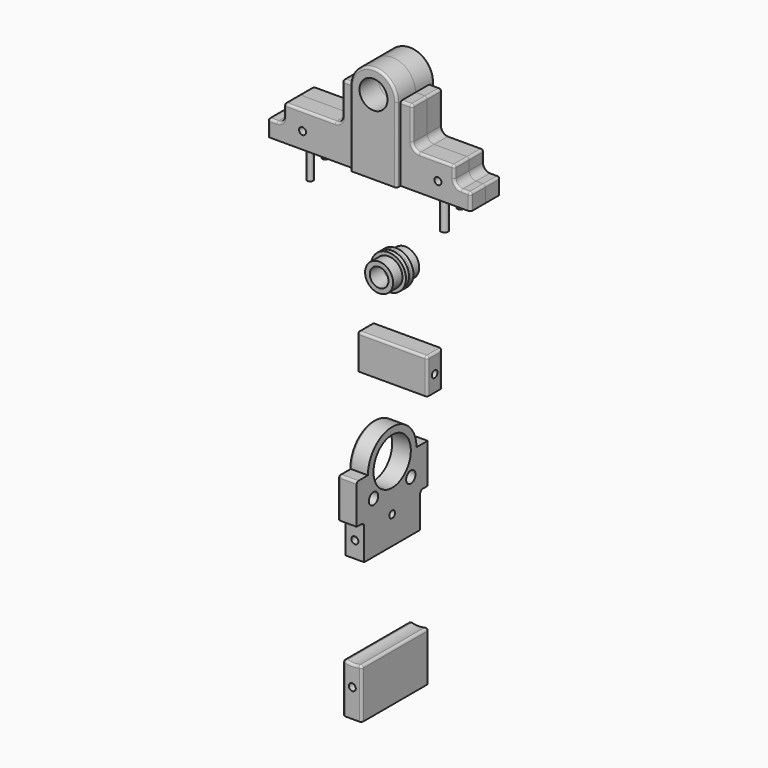
from build123d import *

# Parameters (mm, degrees)
F0_R      = 1.5
F0_R_2    = 6
F1_DEPTH  = 8
F2_R      = 6
F3_DEPTH  = 2
F4_R      = 1
F6_R      = 7.5
F6_R_2    = 4
F7_DEPTH  = 7
F8_R      = 7.5
F8_R_2    = 6
F9_DEPTH  = 5
F10_R     = 0.5
F12_W     = 30
F12_H     = 15
F13_DEPTH = 8
F14_R     = 1.5
F15_DEPTH = 35
F16_R     = 1.25
F17_DEPTH = 10
F18_R     = 1
F19_R     = 2.5
F19_R_2   = 1.5
F19_R_3   = 10
F20_DEPTH = 8
F21_R     = 1.5
F22_DEPTH = 35
F23_R     = 1.25
F24_DEPTH = 10
F25_R     = 1
F26_W     = 36
F26_H     = 21.5
F27_DEPTH = 8
F29_DEPTH = 40
F30_R     = 1.5
F31_DEPTH = 10
F32_R     = 1.25
F33_DEPTH = 10
F34_R     = 1
F35_R     = 1.5865958962
F35_R_2   = 1.25
F36_DEPTH = 13
F37_R     = 1.25
F38_DEPTH = 8


with BuildPart() as f1:
    # F0 (on Front) → F1 (new body)
    with BuildSketch(Plane.XZ):
        with BuildLine():
            Line((14, 32), (10, 32))
            ThreePointArc((10, 32), (0, 42), (-10, 32))
            Line((-10, 32), (-14, 32))
            ThreePointArc((-14, 32), (-14.7071067812, 31.7071067812), (-15, 31))
            Line((-15, 31), (-15, 18))
            ThreePointArc((-15, 18), (-15.8786796564, 15.8786796564), (-18, 15))
            Line((-18, 15), (-39, 15))
            ThreePointArc((-39, 15), (-39.7071067812, 14.7071067812), (-40, 14))
            Line((-40, 14), (-40, 10))
            ThreePointArc((-40, 10), (-40.8786796564, 7.8786796564), (-43, 7))
            Line((-43, 7), (-46, 7))
            ThreePointArc((-46, 7), (-46.7071067812, 6.7071067812), (-47, 6))
            Line((-47, 6), (-47, 0))
            Line((-47, 0), (40, 0))
            Line((40, 0), (40, 6))
            ThreePointArc((40, 6), (39.7071067812, 6.7071067812), (39, 7))
            Line((39, 7), (36, 7))
            ThreePointArc((36, 7), (33.8786796564, 7.8786796564), (33, 10))
            Line((33, 10), (33, 14))
            ThreePointArc((33, 14), (32.7071067812, 14.7071067812), (32, 15))
            Line((32, 15), (18, 15))
            ThreePointArc((18, 15), (15.8786796564, 15.8786796564), (15, 18))
            Line((15, 18), (15, 31))
            ThreePointArc((15, 31), (14.7071067812, 31.7071067812), (14, 32))
        make_face()
        with Locations((-32, 7)):
            Circle(F0_R, mode=Mode.SUBTRACT)
        with Locations((26, 7)):
            Circle(F0_R, mode=Mode.SUBTRACT)
        with Locations((0, 32)):
            Circle(F0_R_2, mode=Mode.SUBTRACT)
    extrude(amount=F1_DEPTH)

    # F2 (on face) → F3 (join)
    with BuildSketch(Plane.XZ.offset(8)):
        with BuildLine():
            Line((10, 0), (10, 32))
            ThreePointArc((10, 32), (0, 42), (-10, 32))
            Line((-10, 32), (-10, 0))
            Line((-10, 0), (10, 0))
        make_face()
        with Locations((0, 32)):
            Circle(F2_R, mode=Mode.SUBTRACT)
    extrude(amount=F3_DEPTH)

    # F4
    f4_edges = [f1.edges().sort_by_distance(p)[0] for p in [
        (25, -8, 15),
        (-28.5, -8, 15),
        (0, -10, 42),
    ]]
    fillet(f4_edges, radius=F4_R)


with BuildPart() as f5_1:
    # F5: instance of F1
    add(f1.part.mirror(Plane.XZ))

    # F37 (on face) → F38 (join)
    with BuildSketch(Plane(origin=(0, 0, 0), x_dir=(1, 0, 0), z_dir=(0, 0, -1))):
        with Locations((26, -4)):
            Circle(F37_R)
        with Locations((-32, -4.1238376871)):
            Circle(F37_R)
    extrude(amount=F38_DEPTH)


with BuildPart() as f7:
    # F6 (on Front) → F7 (new body)
    with BuildSketch(Plane.XZ):
        with Locations((0, -38.2156930864)):
            Circle(F6_R)
        with Locations((0, -38.2156930864)):
            Circle(F6_R_2, mode=Mode.SUBTRACT)
    extrude(amount=-F7_DEPTH)

    # F8 (on face) → F9 (cut)
    with BuildSketch(Plane(origin=(0, 7, 0), x_dir=(-1, 0, 0), z_dir=(0, 1, 0))):
        with Locations((0, -38.2156930864)):
            Circle(F8_R)
        with Locations((0, -38.2156930864)):
            Circle(F8_R_2, mode=Mode.SUBTRACT)
    extrude(amount=-F9_DEPTH, mode=Mode.SUBTRACT)

    # F10
    f10_edges = [f7.edges().sort_by_distance(p)[0] for p in [
        (-7.5, 0, -38.215693),
    ]]
    fillet(f10_edges, radius=F10_R)


with BuildPart() as f11_1:
    # F11: instance of F7
    add(f7.part.mirror(Plane.XZ))


with BuildPart() as f13:
    # F12 (on Front) → F13 (new body)
    with BuildSketch(Plane.XZ):
        with Locations((0, -73.7332031131)):
            Rectangle(F12_W, F12_H)
    extrude(amount=-F13_DEPTH)

    # F14 (on face) → F15 (cut)
    with BuildSketch(Plane.YZ.offset(15)):
        with Locations((4, -74.2332031131)):
            Circle(F14_R)
    extrude(amount=-F15_DEPTH, mode=Mode.SUBTRACT)

    # F16 (on face) → F17 (cut)
    with BuildSketch(Plane(origin=(0, 0, -81.2332031131), x_dir=(1, 0, 0), z_dir=(0, 0, -1))):
        with Locations((-9, -4)):
            Circle(F16_R)
        with Locations((9, -4)):
            Circle(F16_R)
    extrude(amount=-F17_DEPTH, mode=Mode.SUBTRACT)

    # F18
    f18_edges = [f13.edges().sort_by_distance(p)[0] for p in [
        (15, 4, -66.233203),
        (15, 0, -73.733203),
        (0, 0, -66.233203),
        (-15, 0, -73.733203),
        (-15, 4, -66.233203),
        (-15, 8, -73.733203),
        (15, 8, -73.733203),
    ]]
    fillet(f18_edges, radius=F18_R)


with BuildPart() as f20:
    # F19 (on Right) → F20 (new body)
    with BuildSketch(Plane.YZ):
        with BuildLine():
            Line((19, -110.3949025273), (13, -110.3949025273))
            ThreePointArc((13, -110.3949025273), (0, -97.3949025273), (-13, -110.3949025273))
            Line((-13, -110.3949025273), (-19, -110.3949025273))
            Line((-19, -110.3949025273), (-19, -127.3949025273))
            Line((-19, -127.3949025273), (-16.5, -127.3949025273))
            ThreePointArc((-16.5, -127.3949025273), (-15.4393398282, -127.8342423556), (-15, -128.8949025273))
            Line((-15, -128.8949025273), (-15, -142.3949025273))
            Line((-15, -142.3949025273), (15, -142.3949025273))
            Line((15, -142.3949025273), (15, -128.8949025273))
            ThreePointArc((15, -128.8949025273), (15.4393398282, -127.8342423556), (16.5, -127.3949025273))
            Line((16.5, -127.3949025273), (19, -127.3949025273))
            Line((19, -127.3949025273), (19, -110.3949025273))
        make_face()
        with Locations((-10, -120.3949025273)):
            Circle(F19_R, mode=Mode.SUBTRACT)
        with Locations((0, -130.3949025273)):
            Circle(F19_R_2, mode=Mode.SUBTRACT)
        with Locations((10, -120.3949025273)):
            Circle(F19_R, mode=Mode.SUBTRACT)
        with Locations((0, -110.3949025273)):
            Circle(F19_R_3, mode=Mode.SUBTRACT)
    extrude(amount=-F20_DEPTH)

    # F21 (on face) → F22 (cut)
    with BuildSketch(Plane.XZ.offset(15)):
        with Locations((-4, -135.3949025273)):
            Circle(F21_R)
    extrude(amount=-F22_DEPTH, mode=Mode.SUBTRACT)

    # F23 (on face) → F24 (cut)
    with BuildSketch(Plane(origin=(0, 0, -142.3949025273), x_dir=(1, 0, 0), z_dir=(0, 0, -1))):
        with Locations((-4, 9)):
            Circle(F23_R)
        with Locations((-4, -9)):
            Circle(F23_R)
    extrude(amount=-F24_DEPTH, mode=Mode.SUBTRACT)

    # F25
    f25_edges = [f20.edges().sort_by_distance(p)[0] for p in [
        (-8, 0, -97.394903),
        (-4, -19, -110.394903),
        (-8, -16, -110.394903),
        (-8, 16, -110.394903),
        (-8, -19, -118.894903),
        (-8, 19, -118.894903),
    ]]
    fillet(f25_edges, radius=F25_R)


with BuildPart() as f27:
    # F26 (on Right) → F27 (new body)
    with BuildSketch(Plane.YZ):
        with Locations((1.6262185127, -191.5252016783)):
            Rectangle(F26_W, F26_H)
    extrude(amount=-F27_DEPTH)

    # F28 (on face) → F29 (cut)
    with BuildSketch(Plane.XZ.offset(16.3737814873)):
        with BuildLine():
            Line((0, -180.7752016783), (-8, -180.7752016783))
            ThreePointArc((-8, -180.7752016783), (-4, -181.5282509123), (0, -180.7752016783))
        make_face()
    extrude(amount=-F29_DEPTH, mode=Mode.SUBTRACT)

    # F30 (on face) → F31 (cut)
    with BuildSketch(Plane.XZ.offset(16.3737814873)):
        with Locations((-4, -190.2752016783)):
            Circle(F30_R)
    extrude(amount=-F31_DEPTH, mode=Mode.SUBTRACT)

    # F32 (on face) → F33 (cut)
    with BuildSketch(Plane(origin=(0, 0, -202.2752016783), x_dir=(1, 0, 0), z_dir=(0, 0, -1))):
        with Locations((-4, 10.5)):
            Circle(F32_R)
        with Locations((-4, -14.6262185127)):
            Circle(F32_R)
    extrude(amount=-F33_DEPTH, mode=Mode.SUBTRACT)

    # F34
    f34_edges = [f27.edges().sort_by_distance(p)[0] for p in [
        (-4, -16.373781, -181.528251),
        (-8, 1.626219, -180.775202),
        (-8, -16.373781, -191.525202),
        (0, -16.373781, -191.525202),
        (-5.25, -10.5, -192.275202),
        (-5.25, 14.626219, -192.275202),
        (-8, 19.626219, -191.525202),
        (-4, 19.626219, -181.528251),
        (0, 1.626219, -180.775202),
        (0, 19.626219, -191.525202),
    ]]
    fillet(f34_edges, radius=F34_R)


with BuildPart() as f1_1:
    add(f1.part)

    # F35 (on face) → F36 (join)
    with BuildSketch(Plane(origin=(0, 0, 0), x_dir=(1, 0, 0), z_dir=(0, 0, -1))):
        with Locations((26, 4.4601000845)):
            Circle(F35_R)
        with Locations((-32, 3.8966441061)):
            Circle(F35_R_2)
    extrude(amount=F36_DEPTH)


solid = Compound([f5_1.part, f7.part, f11_1.part, f13.part, f20.part, f27.part, f1_1.part])
